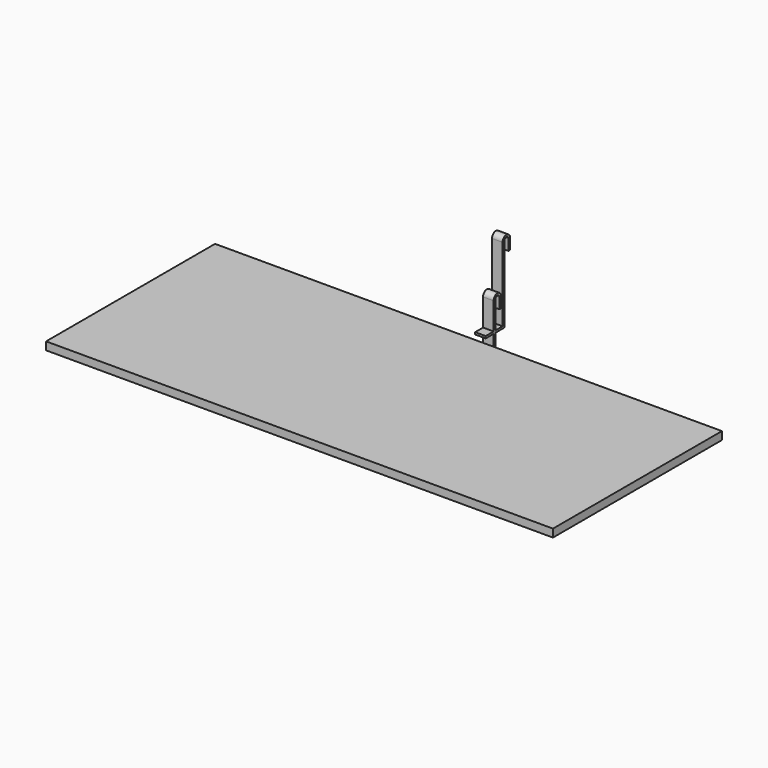
from build123d import *

# Parameters (mm, degrees)
F0_W     = 609.6
F0_H     = 254
F1_DEPTH = 9.525
F3_DEPTH = 12.7


with BuildPart() as f1:
    # F0 (on Top) → F1 (new body)
    with BuildSketch(Plane.XY):
        with Locations((13.309119, -42.326941)):
            Rectangle(F0_W, F0_H)
    extrude(amount=F1_DEPTH)


with BuildPart() as f3:
    # F2 (on Right) → F3 (new body)
    with BuildSketch(Plane.YZ):
        with BuildLine():
            Line((136.709606, 0), (111.309606, 0))
            Line((111.309606, 0), (111.309606, -2.54))
            Line((111.309606, -2.54), (139.249606, -2.54))
            Line((139.249606, -2.54), (139.249606, 88.9))
            ThreePointArc((139.249606, 88.9), (142.424606, 92.075), (145.599606, 88.9))
            Line((145.599606, 88.9), (145.599606, 76.2))
            Line((145.599606, 76.2), (148.139606, 76.2))
            Line((148.139606, 76.2), (148.139606, 88.9))
            ThreePointArc((148.139606, 88.9), (142.424606, 94.615), (136.709606, 88.9))
            Line((136.709606, 88.9), (136.709606, 0))
        make_face()
    extrude(amount=F3_DEPTH)


with BuildPart() as f4_1:
    # F4: copy of F3
    add(f3.part.moved(Location((0, -13.462, -56.388))))


solid = Compound([f1.part, f3.part, f4_1.part])
